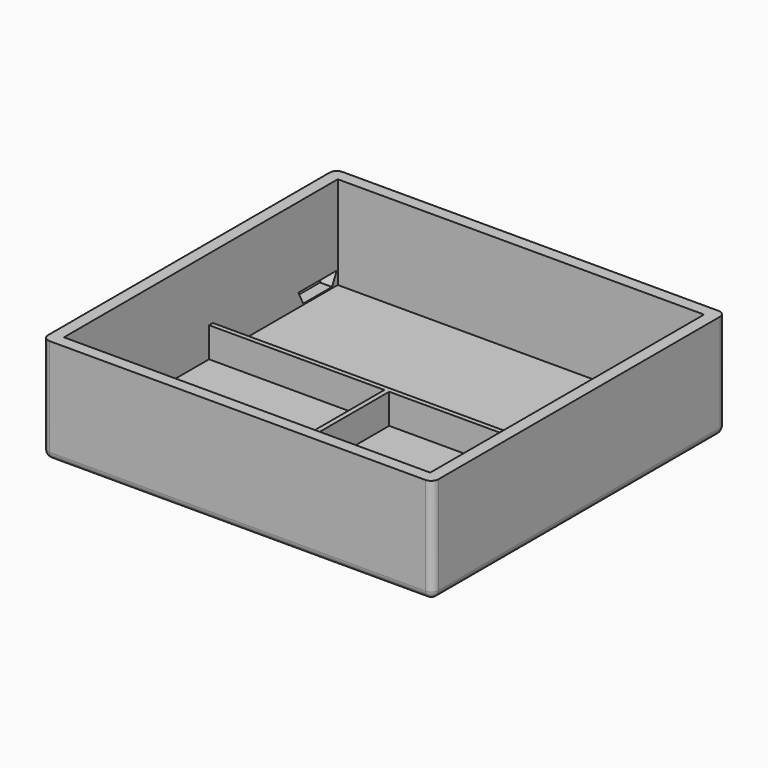
from build123d import *

# Parameters (mm, degrees)
F0_W     = 65
F0_H     = 61
F1_DEPTH = 17.5
F2_T     = -2
F3_R     = 1.2
F4_W     = 0.8
F4_H     = 30.2
F5_DEPTH = 5
F7_DEPTH = 2


with BuildPart() as f1:
    # F0 (on Top) → F1 (new body)
    with BuildSketch(Plane.XY):
        Rectangle(F0_W, F0_H)
    extrude(amount=F1_DEPTH)

    # F2
    f2_openings = [f1.faces().sort_by_distance(p)[0] for p in [
        (0, 0, 17.5),
    ]]
    offset(amount=F2_T, openings=f2_openings)

    # F3
    f3_edges = [f1.edges().sort_by_distance(p)[0] for p in [
        (32.5, -30.5, 8.75),
        (32.5, 30.5, 8.75),
        (-32.5, 30.5, 8.75),
        (-32.5, -30.5, 8.75),
        (0, -30.5, 0),
        (-32.5, 0, 0),
        (32.5, 0, 0),
        (0, 30.5, 0),
    ]]
    fillet(f3_edges, radius=F3_R)

    # F4 (on face) → F5 (join)
    with BuildSketch(Plane.XY.offset(2)):
        Polygon((30.5, 2.5), (-30.5, 2.5), (-30.5, 1.7), (-1.3, 1.7), (-0.5, 1.7), (30.5, 1.7), align=None)
        with Locations((-0.9, -13.4)):
            Rectangle(F4_W, F4_H)
    extrude(amount=F5_DEPTH)

    # F6 (on face) → F7 (cut, through all)
    with BuildSketch(Plane(origin=(-32.5, 0, 0), x_dir=(0, -1, 0), z_dir=(-1, 0, 0))):
        Polygon((-20.3, 4.2), (-28.3, 4.2), (-27.3, 2.2), (-21.3, 2.2), align=None)
    extrude(amount=-F7_DEPTH, mode=Mode.SUBTRACT)


solid = f1.part
